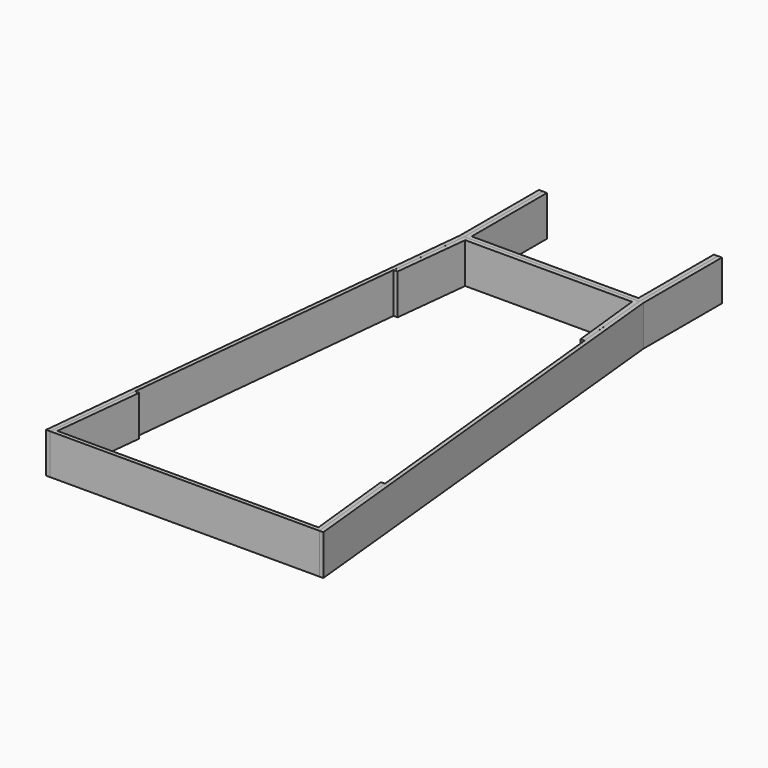
from build123d import *

# Parameters (mm, degrees)
F1_DEPTH = 15
F2_DEPTH = 15
F3_DEPTH = 15
F4_DEPTH = 15
F5_DEPTH = 15


with BuildPart() as f1:
    # F0 (on Top) → F1 (new body)
    with BuildSketch(Plane.XY):
        Polygon((-44.907625, -135.5), (-46.407625, -135.5), (-50, -170.5), (0, -170.5), (50, -170.5), (46.407625, -135.5), (44.907625, -135.5), (48.5, -169), (0, -169), (-48.5, -169), align=None)
    extrude(amount=F1_DEPTH)


with BuildPart() as f2:
    # F0 (on Top) → F2 (new body)
    with BuildSketch(Plane.XY):
        Polygon((-32.5, 0), (0, 0), (32.5, 0), (32.5, 36.5), (31, 36.5), (31, 1.5), (0, 1.5), (-31, 1.5), (-31, 36.5), (-32.5, 36.5), align=None)
    extrude(amount=F2_DEPTH)


with BuildPart() as f3:
    # F0 (on Top) → F3 (new body)
    with BuildSketch(Plane.XY):
        Polygon((32.5, 0), (0, 0), (-32.5, 0), (-35.490287, -29.133944), (-34, -29.133944), (-31, -1.5), (0, -1.5), (31, -1.5), (34, -29.133944), (35.490287, -29.133944), align=None)
    extrude(amount=F3_DEPTH)


with BuildPart() as f4:
    # F0 (on Top) → F4 (new body)
    with BuildSketch(Plane.XY):
        Polygon((-35.5, -29.133944), (-32.5, 0), (-32.5, 36.5), (-34, 36.5), (-34, 0), (-51.5, -170.5), (-50, -170.5), (-46.407625, -135.5), (-35.490287, -29.133944), align=None)
    extrude(amount=F4_DEPTH)


with BuildPart() as f5:
    # F0 (on Top) → F5 (new body)
    with BuildSketch(Plane.XY):
        Polygon((32.5, 36.5), (32.5, 0), (35.5, -29.133944), (35.490287, -29.133944), (46.407625, -135.5), (50, -170.5), (51.5, -170.5), (34, 0), (34, 36.5), align=None)
    extrude(amount=F5_DEPTH)


solid = Compound([f1.part, f2.part, f3.part, f4.part, f5.part])
